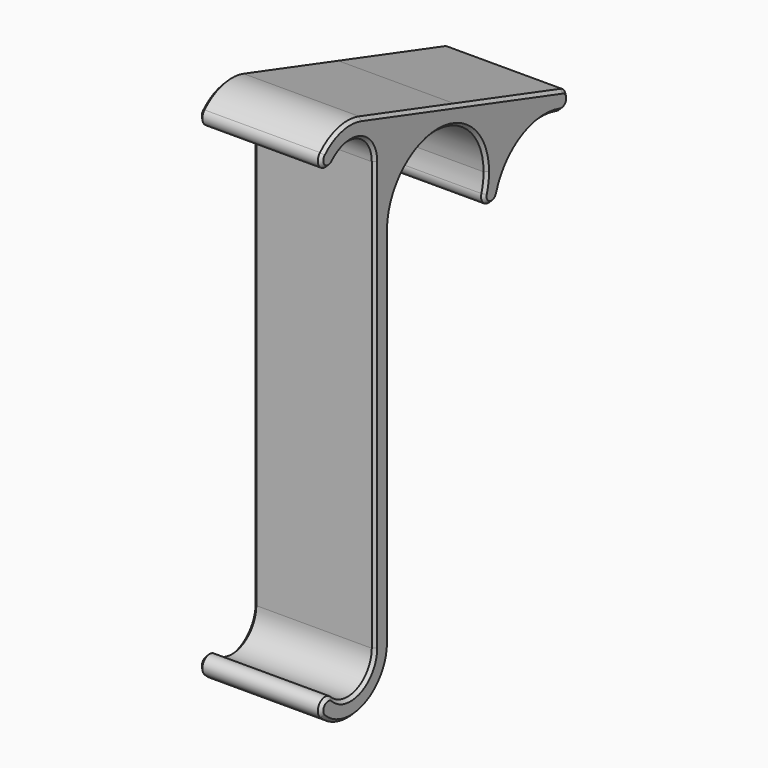
from build123d import *

# Parameters (mm, degrees)
F1_DEPTH = 20
F2_SIZE  = 0.5


with BuildPart() as f1:
    # F0 (on Right) → F1 (new body)
    with BuildSketch(Plane.YZ):
        with BuildLine():
            ThreePointArc((8, -2.5100299635), (7.3979430927, -3.2935966464), (6.8571428166, -4.1206300966))
            ThreePointArc((6.8571428166, -4.1206300966), (5.4728865379, -7.3422577195), (5, -10.8166538264))
            ThreePointArc((5, -10.8166538264), (5.7729807394, -15.2325342596), (8, -19.1232776893))
            Line((8, -19.1232776893), (8, -10.8166538264))
            Line((8, -10.8166538264), (8, -2.5100299635))
        make_face()
        with BuildLine():
            ThreePointArc((-3.5355339038, 3.5355339081), (1.9134171632, 4.619397662), (5, 0))
            Line((5, 0), (5, -6.2449979984))
            ThreePointArc((5, -6.2449979984), (6.022972164, -5.2653400945), (6.8571428166, -4.1206300966))
            ThreePointArc((6.8571428166, -4.1206300966), (7.7089928828, -2.1380899732), (8, 0))
            ThreePointArc((8, 0), (6.4403338781, 4.7457454145), (2.3694751153, 7.6410462424))
            ThreePointArc((2.3694751153, 7.6410462424), (-1.9198879809, 7.7662107968), (-5.6568542495, 5.6568542495))
            ThreePointArc((-5.6568542495, 5.6568542495), (-4.0221689292, 5.9820133765), (-3.0961940777, 4.5961940777))
            ThreePointArc((-3.0961940777, 4.5961940777), (-3.2103747784, 4.0221689306), (-3.5355339038, 3.5355339081))
        make_face()
        with BuildLine():
            ThreePointArc((-5.6568542495, 5.6568542495), (-5.6568542484, 3.5355339049), (-3.5355339038, 3.5355339081))
            ThreePointArc((-3.5355339038, 3.5355339081), (-3.2103747784, 4.0221689306), (-3.0961940777, 4.5961940777))
            ThreePointArc((-3.0961940777, 4.5961940777), (-4.0221689292, 5.9820133765), (-5.6568542495, 5.6568542495))
        make_face()
        with BuildLine():
            ThreePointArc((8, -70.5), (7.2111025509, -67.0358983849), (5, -64.2550020016))
            Line((5, -64.2550020016), (5, -70.5))
            ThreePointArc((5, -70.5), (1.91341718, -75.119397655), (-3.5355338781, -74.0355339338))
            ThreePointArc((-3.5355338781, -74.0355339338), (-3.2103747714, -74.5221689473), (-3.0961940777, -75.0961940777))
            ThreePointArc((-3.0961940777, -75.0961940777), (-4.0221689259, -76.4820133751), (-5.6568542445, -76.1568542545))
            ThreePointArc((-5.6568542445, -76.1568542545), (3.0614674622, -77.8910362587), (8, -70.5))
        make_face()
        with BuildLine():
            ThreePointArc((-3.5355338781, -74.0355339338), (-5.6568542381, -74.0355338945), (-5.6568542445, -76.1568542545))
            ThreePointArc((-5.6568542445, -76.1568542545), (-4.0221689259, -76.4820133751), (-3.0961940777, -75.0961940777))
            ThreePointArc((-3.0961940777, -75.0961940777), (-3.2103747714, -74.5221689473), (-3.5355338781, -74.0355339338))
        make_face()
        with BuildLine():
            ThreePointArc((6.8571428166, -4.1206300966), (6.022972164, -5.2653400945), (5, -6.2449979984))
            Line((5, -6.2449979984), (5, -10.8166538264))
            ThreePointArc((5, -10.8166538264), (5.4728865379, -7.3422577195), (6.8571428166, -4.1206300966))
        make_face()
        with BuildLine():
            ThreePointArc((21.8503970623, 1.6000463175), (14.3016779708, 1.6461875097), (8, -2.5100299635))
            Line((8, -2.5100299635), (8, -10.8166538264))
            ThreePointArc((8, -10.8166538264), (18, -0.8166538264), (28, -10.8166538264))
            ThreePointArc((28, -10.8166538264), (27.8871906481, -12.3144726031), (27.5513077824, -13.7784977868))
            ThreePointArc((27.5513077824, -13.7784977868), (29.2086767505, -12.7396957014), (30.4840039734, -14.2227743046))
            ThreePointArc((30.4840039734, -14.2227743046), (30.4670825809, -14.4474470536), (30.4167001812, -14.6670507681))
            ThreePointArc((30.4167001812, -14.6670507681), (30.8533478588, -12.7638181291), (31, -10.8166538264))
            ThreePointArc((31, -10.8166538264), (28.4655425519, -3.1048175279), (21.8503970623, 1.6000463175))
        make_face()
        with BuildLine():
            ThreePointArc((27.5513077824, -13.7784977868), (28.5397274827, -15.655470504), (30.4167001812, -14.6670507681))
            ThreePointArc((30.4167001812, -14.6670507681), (30.4670825809, -14.4474470536), (30.4840039734, -14.2227743046))
            ThreePointArc((30.4840039734, -14.2227743046), (29.2086767505, -12.7396957014), (27.5513077824, -13.7784977868))
        make_face()
        with BuildLine():
            ThreePointArc((8, 0), (7.7089928828, -2.1380899732), (6.8571428166, -4.1206300966))
            ThreePointArc((6.8571428166, -4.1206300966), (7.3979430927, -3.2935966464), (8, -2.5100299635))
            Line((8, -2.5100299635), (8, 0))
        make_face()
        with BuildLine():
            ThreePointArc((8, -19.1232776893), (5.7729807394, -15.2325342596), (5, -10.8166538264))
            Line((5, -10.8166538264), (5, -64.2550020016))
            ThreePointArc((5, -64.2550020016), (7.2111025509, -67.0358983849), (8, -70.5))
            Line((8, -70.5), (8, -19.1232776893))
        make_face()
        with BuildLine():
            Line((21.8503970623, 1.6000463175), (2.3694751153, 7.6410462424))
            ThreePointArc((2.3694751153, 7.6410462424), (6.4403338781, 4.7457454145), (8, 0))
            Line((8, 0), (8, -2.5100299635))
            ThreePointArc((8, -2.5100299635), (14.3016779708, 1.6461875097), (21.8503970623, 1.6000463175))
        make_face()
        with BuildLine():
            Line((43.8184051491, -5.2121946824), (21.8503970623, 1.6000463175))
            ThreePointArc((21.8503970623, 1.6000463175), (28.4655425519, -3.1048175279), (31, -10.8166538264))
            ThreePointArc((31, -10.8166538264), (30.8533478588, -12.7638181291), (30.4167001812, -14.6670507681))
            ThreePointArc((30.4167001812, -14.6670507681), (35.3085533829, -8.7807603373), (42.9298518292, -8.0775869762))
            ThreePointArc((42.9298518292, -8.0775869762), (41.9414322781, -6.2006141495), (43.8184051491, -5.2121946824))
        make_face()
        with BuildLine():
            ThreePointArc((44.874128425, -6.6448908094), (44.5816910706, -5.7550636032), (43.8184051491, -5.2121946824))
            ThreePointArc((43.8184051491, -5.2121946824), (41.9414322781, -6.2006141495), (42.9298518292, -8.0775869762))
            ThreePointArc((42.9298518292, -8.0775869762), (44.2639556853, -7.8524534152), (44.874128425, -6.6448908094))
        make_face()
    extrude(amount=F1_DEPTH)

    # F2
    f2_edges = [f1.edges().sort_by_distance(p)[0] for p in [
        (20, -1.919888, 7.766211),
        (20, -5.656854, 3.535534),
        (20, 1.913417, 4.619398),
        (20, 5, -35.25),
        (20, 1.913417, -75.119398),
        (20, -5.656854, -74.035534),
        (20, 3.061467, -77.891036),
        (20, 8, -40.658327),
        (20, 19.497819, -0.929463),
        (20, 28.539727, -15.655471),
        (20, 35.308553, -8.78076),
        (20, 44.806825, -7.089167),
        (20, 23.09394, 1.214426),
        (0, -1.919888, 7.766211),
        (0, -5.656854, 3.535534),
        (0, 1.913417, 4.619398),
        (0, 5, -35.25),
        (0, 1.913417, -75.119398),
        (0, -5.656854, -74.035534),
        (0, 3.061467, -77.891036),
        (0, 8, -40.658327),
        (0, 19.497819, -0.929463),
        (0, 28.539727, -15.655471),
        (0, 35.308553, -8.78076),
        (0, 44.806825, -7.089167),
        (0, 23.09394, 1.214426),
    ]]
    chamfer(f2_edges, length=F2_SIZE)


solid = f1.part
